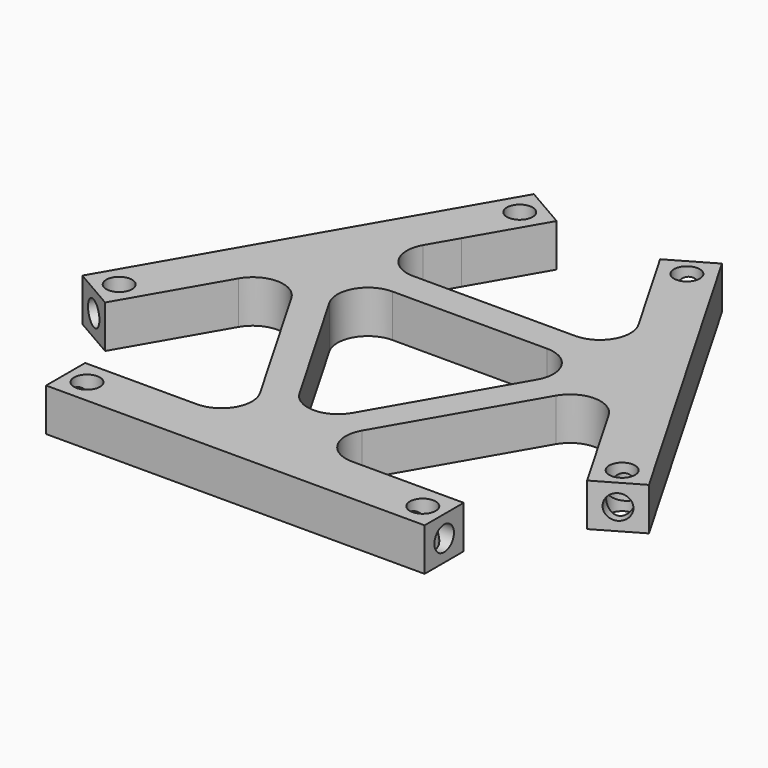
from build123d import *

# Parameters (mm, degrees)
F0_R     = 2.1115973111
F1_DEPTH = 7
F2_R     = 2
F3_DEPTH = 92.9003464006
F4_R     = 2
F6_DEPTH = 77.4003464006
F5_R     = 2
F7_DEPTH = 85.1000196009


with BuildPart() as f1:
    # F0 (on Top) → F1 (new body)
    with BuildSketch(Plane.XY):
        with BuildLine():
            Line((-21.6506350946, 37.5), (-8.3493649054, 14.4615242271))
            ThreePointArc((-8.3493649054, 14.4615242271), (-8.3493649054, 9.4615242271), (-12.6794919243, 6.9615242271))
            Line((-12.6794919243, 6.9615242271), (-31, 6.9615242271))
            Line((-31, 6.9615242271), (-31, -1.0384757729))
            Line((-31, -1.0384757729), (31, -1.0384757729))
            Line((31, -1.0384757729), (31, 6.9615242271))
            Line((31, 6.9615242271), (12.6794919243, 6.9615242271))
            ThreePointArc((12.6794919243, 6.9615242271), (8.3493649054, 9.4615242271), (8.3493649054, 14.4615242271))
            Line((8.3493649054, 14.4615242271), (21.6506350946, 37.5))
            ThreePointArc((21.6506350946, 37.5), (25.9807621135, 40), (30.3108891325, 37.5))
            Line((30.3108891325, 37.5), (39.4711431703, 21.6339745962))
            Line((39.4711431703, 21.6339745962), (46.3993464006, 25.6339745962))
            Line((46.3993464006, 25.6339745962), (15.3993464006, 79.3275496309))
            Line((15.3993464006, 79.3275496309), (8.4711431703, 75.3275496309))
            Line((8.4711431703, 75.3275496309), (17.6313972081, 59.4615242271))
            ThreePointArc((17.6313972081, 59.4615242271), (17.6313972081, 54.4615242271), (13.3012701892, 51.9615242271))
            Line((13.3012701892, 51.9615242271), (-13.3012701892, 51.9615242271))
            ThreePointArc((-13.3012701892, 51.9615242271), (-17.6313972081, 54.4615242271), (-17.6313972081, 59.4615242271))
            Line((-17.6313972081, 59.4615242271), (-15, 64.0192378865))
            Line((-15, 64.0192378865), (-8.4711431703, 75.3275496309))
            Line((-8.4711431703, 75.3275496309), (-15.3993464006, 79.3275496309))
            Line((-15.3993464006, 79.3275496309), (-46.3993464006, 25.6339745962))
            Line((-46.3993464006, 25.6339745962), (-39.4711431703, 21.6339745962))
            Line((-39.4711431703, 21.6339745962), (-30.3108891325, 37.5))
            ThreePointArc((-30.3108891325, 37.5), (-25.9807621135, 40), (-21.6506350946, 37.5))
        make_face()
        with Locations((-27.5, 2.9615242271)):
            Circle(F0_R, mode=Mode.SUBTRACT)
        with Locations((-41.1852447854, 26.6650635095)):
            Circle(F0_R, mode=Mode.SUBTRACT)
        with BuildLine():
            Line((-4.3301270189, 17.5), (-17.0096189432, 39.4615242271))
            ThreePointArc((-17.0096189432, 39.4615242271), (-17.0096189432, 44.4615242271), (-12.6794919243, 46.9615242271))
            Line((-12.6794919243, 46.9615242271), (12.6794919243, 46.9615242271))
            ThreePointArc((12.6794919243, 46.9615242271), (17.0096189432, 44.4615242271), (17.0096189432, 39.4615242271))
            Line((17.0096189432, 39.4615242271), (4.3301270189, 17.5))
            ThreePointArc((4.3301270189, 17.5), (0, 15), (-4.3301270189, 17.5))
        make_face(mode=Mode.SUBTRACT)
        with Locations((27.5, 2.9615242271)):
            Circle(F0_R, mode=Mode.SUBTRACT)
        with Locations((41.1852447854, 26.6650635095)):
            Circle(F0_R, mode=Mode.SUBTRACT)
        with Locations((-13.6852447854, 74.2964607176)):
            Circle(F0_R, mode=Mode.SUBTRACT)
        with Locations((13.6852447854, 74.2964607176)):
            Circle(F0_R, mode=Mode.SUBTRACT)
    extrude(amount=F1_DEPTH)

    # F2 (on face) → F3 (cut, through all)
    with BuildSketch(Plane(origin=(-0.5, -0.8660254038, 0), x_dir=(0.8660254038, -0.5, 0), z_dir=(-0.5, -0.8660254038, 0))):
        with Locations((-49, 3.5)):
            Circle(F2_R)
    extrude(amount=-F3_DEPTH, mode=Mode.SUBTRACT)

    # F4 (on face) → F6 (cut, through all)
    with BuildSketch(Plane(origin=(-31, 0, 0), x_dir=(0, -1, 0), z_dir=(-1, 0, 0))):
        with Locations((-2.9615242271, 3.5)):
            Circle(F4_R)
    extrude(amount=-F6_DEPTH, mode=Mode.SUBTRACT)

    # F5 (on face) → F7 (cut, through all)
    with BuildSketch(Plane(origin=(-30.5, 52.8275496309, 0), x_dir=(-0.8660254038, -0.5, 0), z_dir=(-0.5, 0.8660254038, 0))):
        with Locations((-49, 3.5)):
            Circle(F5_R)
    extrude(amount=-F7_DEPTH, mode=Mode.SUBTRACT)


solid = f1.part
